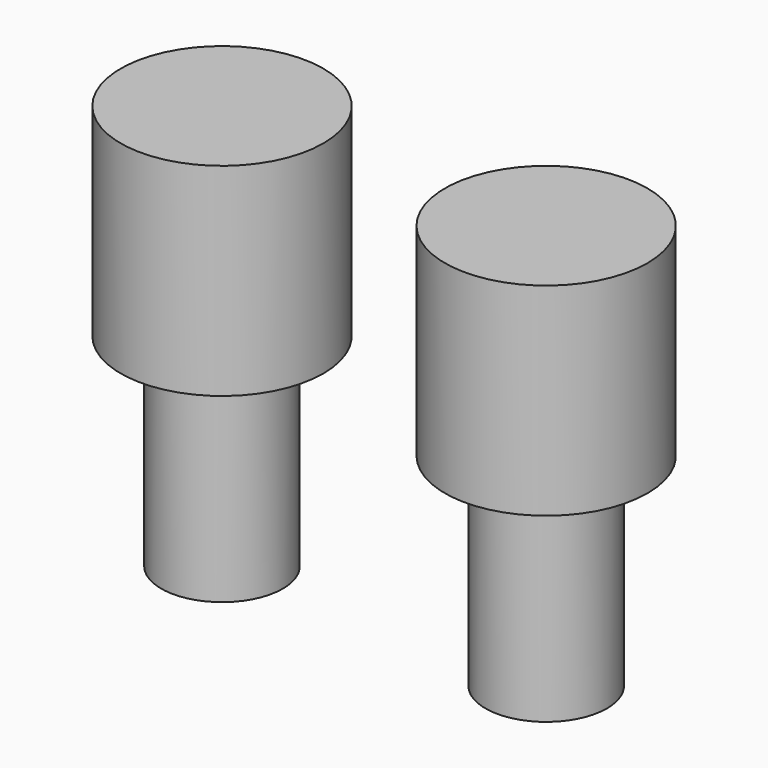
from build123d import *

# Parameters (mm, degrees)
F0_R     = 7.5
F1_DEPTH = 25
F3_R     = 12.5
F4_DEPTH = 25


with BuildPart() as f1:
    # F0 (on Top) → F1 (new body)
    with BuildSketch(Plane.XY):
        with Locations((-20, 0)):
            Circle(F0_R)
        with Locations((20, 0)):
            Circle(F0_R)
    extrude(amount=F1_DEPTH)


with BuildPart() as f4:
    # F3 (on mid) → F4 (new body)
    with BuildSketch(Plane.XY.offset(25)):
        with Locations((-20, 0)):
            Circle(F3_R)
        with Locations((20, 0)):
            Circle(F3_R)
    extrude(amount=F4_DEPTH)


solid = Compound([f1.part, f4.part])
